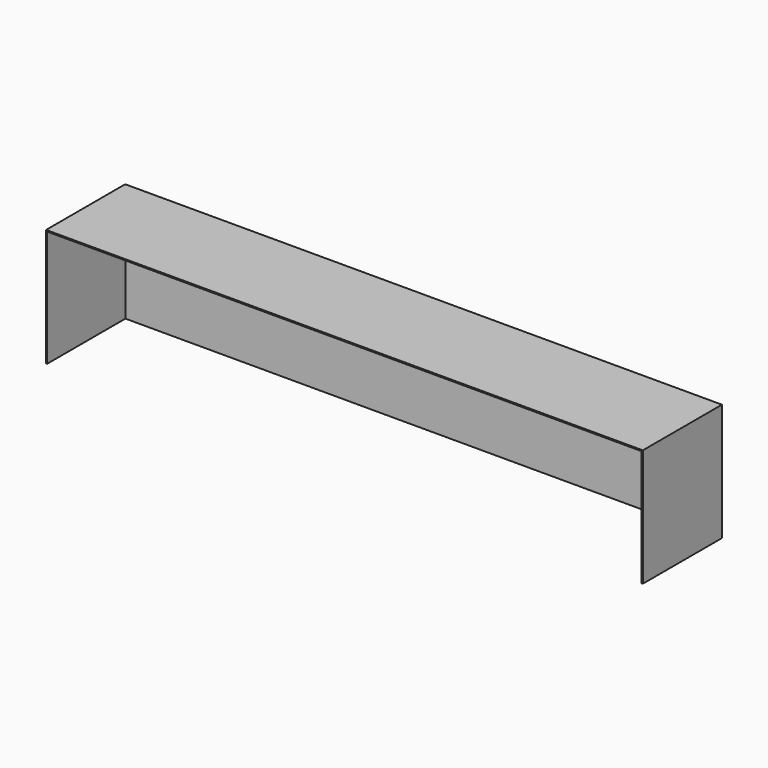
from build123d import *

# Parameters (mm, degrees)
F1_DEPTH = 2.54
F2_DEPTH = 215.9


with BuildPart() as f1:
    # F0 (on Front) → F1 (new body)
    with BuildSketch(Plane.XZ):
        Polygon((-65.288178, -24.951821), (-65.288178, -126.551821), (-60.989264, -126.551821), (1232.651822, -126.551821), (1232.651822, 25.848179), (1232.651822, 127.448179), (-65.288178, 127.448179), align=None)
    extrude(amount=F1_DEPTH)

    # F0 (on Front) → F2 (join)
    with BuildSketch(Plane.XZ):
        Polygon((1235.191822, 129.988179), (-67.828178, 129.988179), (-67.828178, -24.951821), (-67.828178, -126.571611), (-65.288178, -126.551821), (-65.288178, -24.951821), (-65.288178, 127.448179), (1232.651822, 127.448179), (1232.651822, 25.848179), (1232.651822, -126.551821), (1235.191822, -126.551821), (1235.191822, -24.951821), align=None)
    extrude(amount=F2_DEPTH)


solid = f1.part
